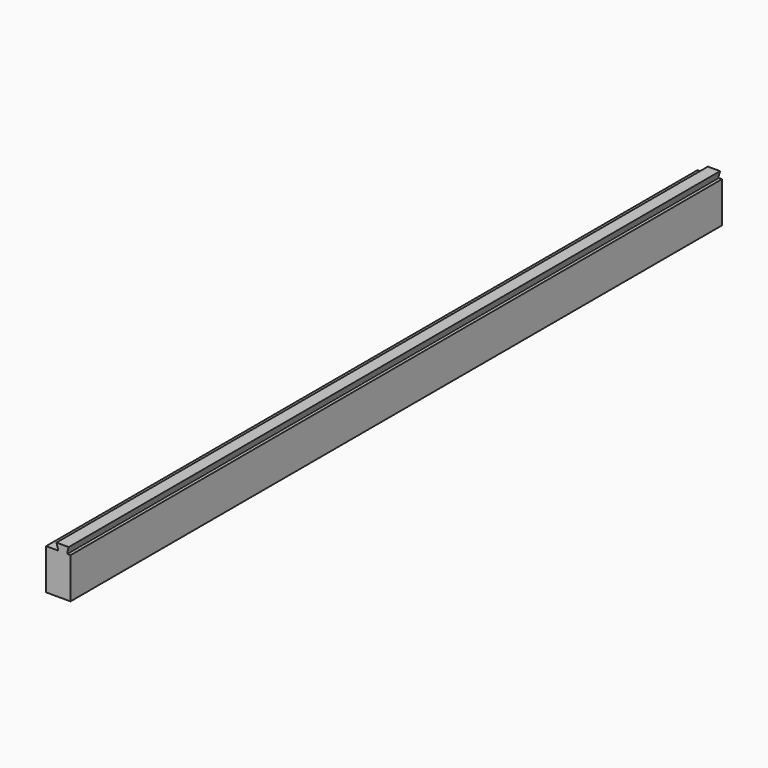
from build123d import *

# Parameters (mm, degrees)
BOX_W                  = 70
BOX_H                  = 200
BOX_DEPTH              = 11.6
POCKET_DEPTH           = 200.001
LINEARPATTERN_COUNT    = 5
LINEARPATTERN_PITCH    = 14.5
SKETCH_W               = 82.408782
SKETCH_H               = 38.885188
SKETCH_W_2             = 6
SKETCH_H_2             = 21.094656
POCKET001_DEPTH        = 200.001
SKETCH003_R            = 1
POCKET002_DEPTH        = 5.201
LINEARPATTERN001_COUNT = 3
LINEARPATTERN001_PITCH = 15


with BuildPart() as part:
    # Box → Box (new body)
    with BuildSketch(Plane(origin=(-7.5, 0, 0), x_dir=(1, 0, 0), z_dir=(0, 0, 1))):
        with Locations((35, 100)):
            Rectangle(BOX_W, BOX_H)
    extrude(amount=BOX_DEPTH)

    # Sketch002 → Pocket (cut, through all)
    with BuildSketch(Plane(origin=(-7.5, 0, 0), x_dir=(1, 0, 0), z_dir=(0, -1, 0))):
        Polygon((14.1, 10), (11.2, 10), (11.2, 3), (2.7, 3), (2.7, 10), (1.9, 10), (1.9, 10.4), (2.25, 11.6), (13.75, 11.6), (14.1, 10.4), align=None)
    pocket = extrude(amount=-POCKET_DEPTH, mode=Mode.SUBTRACT)

    # LinearPattern: Pocket ×5
    with Locations(*[(i * LINEARPATTERN_PITCH, 0, 0) for i in range(1, LINEARPATTERN_COUNT)]):
        add(pocket, mode=Mode.SUBTRACT)

    # Sketch → Pocket001 (cut, through all)
    with BuildSketch(Plane(origin=(-7.5, 0, 0), x_dir=(1, 0, 0), z_dir=(0, -1, 0))):
        with Locations((35.413628, 6.289411)):
            Rectangle(SKETCH_W, SKETCH_H)
        with Locations((14.2, 4.644143)):
            Rectangle(SKETCH_W_2, SKETCH_H_2, mode=Mode.SUBTRACT)
    extrude(amount=-POCKET001_DEPTH, mode=Mode.SUBTRACT)

    # Sketch003 → Pocket002 (cut, through all)
    with BuildSketch(Plane.YZ.offset(8.9)):
        with Locations((21.45, -100)):
            Circle(SKETCH003_R)
        with Locations((21.45, -10)):
            Circle(SKETCH003_R)
        with Locations((21.45, -190)):
            Circle(SKETCH003_R)
    pocket002 = extrude(amount=-POCKET002_DEPTH, mode=Mode.SUBTRACT)

    # LinearPattern001: Pocket002 ×3
    with Locations(*[(0, i * LINEARPATTERN001_PITCH, 0) for i in range(1, LINEARPATTERN001_COUNT)]):
        add(pocket002, mode=Mode.SUBTRACT)


solid = part.part
